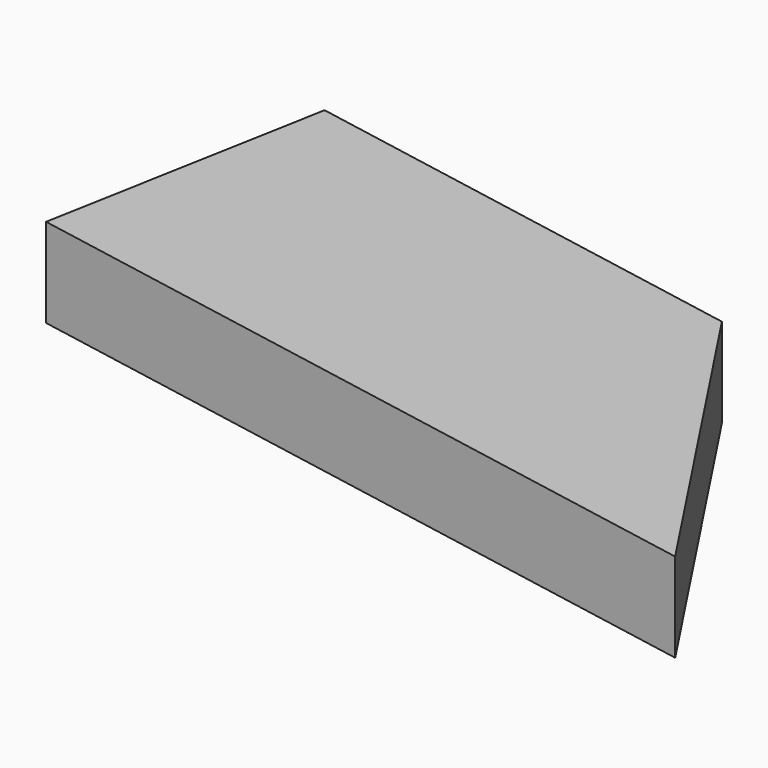
from build123d import *

# Parameters (mm, degrees)
F1_DEPTH = 25.4


with BuildPart() as f1:
    # F0 (on Top) → F1 (new body)
    with BuildSketch(Plane.XY):
        Polygon((-81.207342, -33.306692), (128.998071, -71.867779), (66.366725, 23.078707), (-66.396005, 47.433338), align=None)
    extrude(amount=-F1_DEPTH)


solid = f1.part
